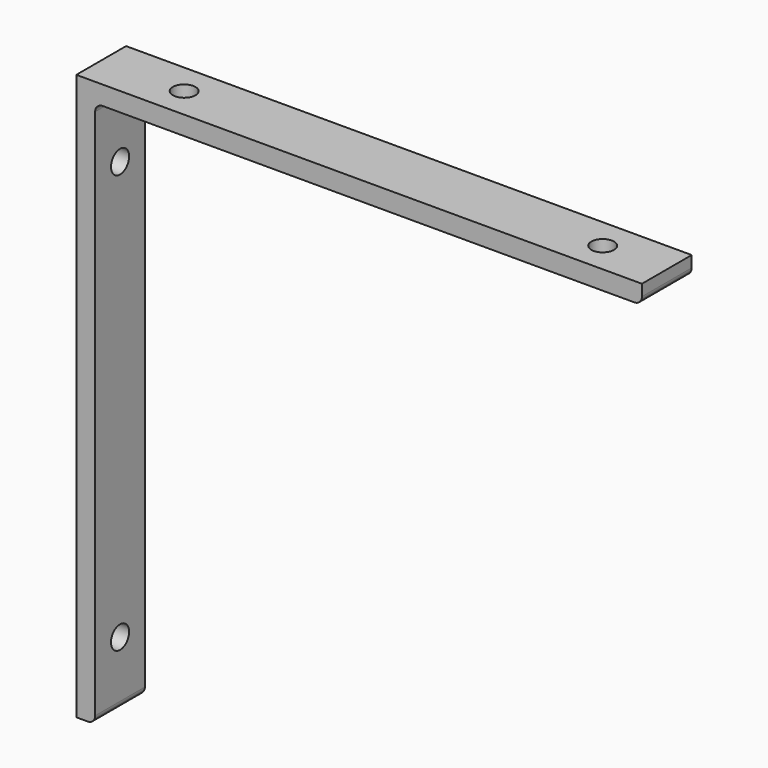
from build123d import *

# Parameters (mm, degrees)
F1_DEPTH = 16.5
F2_R     = 2
F3_R     = 3
F4_DEPTH = 25
F5_R     = 3
F6_DEPTH = 25


with BuildPart() as f1:
    # F0 (on Front) → F1 (new body)
    with BuildSketch(Plane.XZ):
        Polygon((5, 0), (0, 0), (0, -5), (0, -150), (5, -150), (5, -5), (150, -5), (150, 0), align=None)
    extrude(amount=F1_DEPTH)

    # F2
    f2_edges = [f1.edges().sort_by_distance(p)[0] for p in [
        (5, -8.25, -5),
        (150, -8.25, -5),
        (5, -8.25, -150),
    ]]
    fillet(f2_edges, radius=F2_R)

    # F3 (on face) → F4 (cut)
    with BuildSketch(Plane(origin=(0, 0, -5), x_dir=(1, 0, 0), z_dir=(0, 0, -1))):
        with Locations((133, 8.25)):
            Circle(F3_R)
        with Locations((22, 8.25)):
            Circle(F3_R)
    extrude(amount=-F4_DEPTH, mode=Mode.SUBTRACT)

    # F5 (on face) → F6 (cut)
    with BuildSketch(Plane.YZ.offset(5)):
        with Locations((-8.25, -133)):
            Circle(F5_R)
        with Locations((-8.25, -22)):
            Circle(F5_R)
    extrude(amount=-F6_DEPTH, mode=Mode.SUBTRACT)


solid = f1.part
